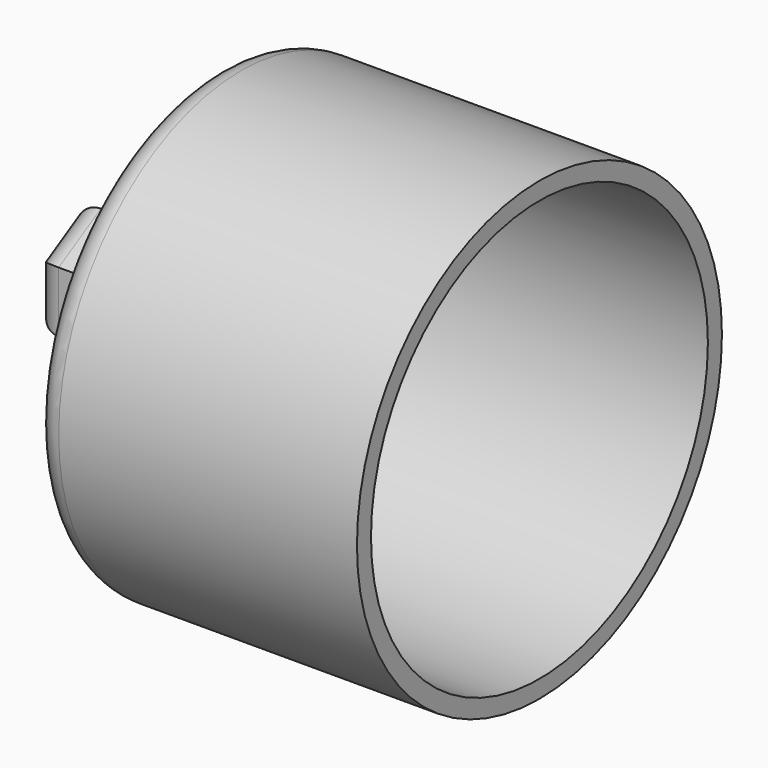
from build123d import *

# Parameters (mm, degrees)
F1_DEPTH = 12.7
F2_R     = 20.6375
F3_DEPTH = 29.3624
F4_T     = -1.5875
F5_R     = 0.79375
F6_R     = 2.38125
F7_R     = 2.38125


with BuildPart() as f1:
    # F0 (on Right) → F1 (new body)
    with BuildSketch(Plane.YZ):
        Polygon((4.7625, -2.749630657), (4.7625, 2.749630657), (0, 5.499261314), (-4.7625, 2.749630657), (-4.7625, -2.749630657), (0, -5.499261314), align=None)
    extrude(amount=F1_DEPTH)

    # F2 (on face) → F3 (join)
    with BuildSketch(Plane.YZ.offset(12.7)):
        Circle(F2_R)
    extrude(amount=F3_DEPTH)

    # F4
    f4_openings = [f1.faces().sort_by_distance(p)[0] for p in [
        (42.0624, 0, 0),
    ]]
    offset(amount=F4_T, openings=f4_openings, kind=Kind.INTERSECTION)

    # F5
    f5_edges = [f1.edges().sort_by_distance(p)[0] for p in [
        (14.2875, -19.05, 0),
    ]]
    fillet(f5_edges, radius=F5_R)

    # F6
    f6_edges = [f1.edges().sort_by_distance(p)[0] for p in [
        (12.7, -20.6375, 0),
    ]]
    fillet(f6_edges, radius=F6_R)

    # F7
    f7_edges = [f1.edges().sort_by_distance(p)[0] for p in [
        (0, 2.38125, 4.124446),
        (0, -2.38125, 4.124446),
        (0, -4.7625, 0),
        (0, -2.38125, -4.124446),
        (0, 2.38125, -4.124446),
        (0, 4.7625, 0),
    ]]
    fillet(f7_edges, radius=F7_R)


solid = f1.part
